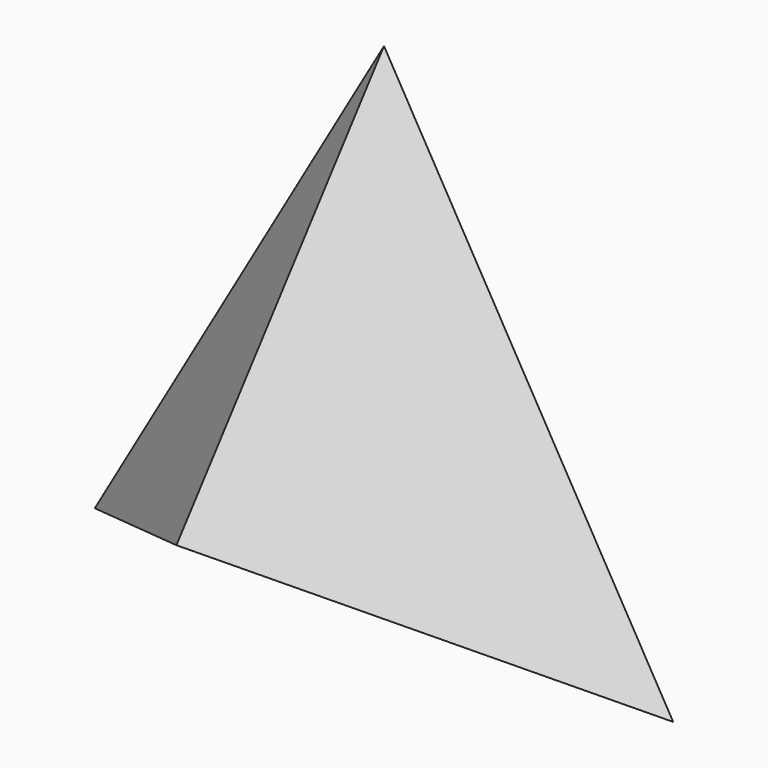
from build123d import *

# Parameters (mm, degrees)
F1_DEPTH = 50.8
F4_DEPTH = 38.1
F6_DEPTH = 76.2
F9_DEPTH = 38.1


with BuildPart() as f1:
    # F0 (on Front) → F1 (new body)
    with BuildSketch(Plane.XZ):
        Polygon((0, 27.8534215753), (-24.1217706665, -13.9267107877), (24.1217706665, -13.9267107877), align=None)
    extrude(amount=F1_DEPTH)

    # F3 (on Right) → F4 (cut, symmetric)
    with BuildSketch(Plane.YZ):
        Polygon((-4.1414177977, -23.6890129745), (0, -13.9267107877), (-21.6406751424, 0), (-53.4481443465, 0), (-53.4481443465, -20.1891623437), align=None)
    extrude(amount=F4_DEPTH, both=True, mode=Mode.SUBTRACT)

    # F5 (on face) → F6 (cut)
    with BuildSketch(Plane(origin=(-12.0608853333, 0, -20.8900661815), x_dir=(0.8660254038, 0, -0.5), z_dir=(0.5, 0, 0.8660254038))):
        Polygon((0, -21.6406751424), (-13.9267107877, 0), (-23.6785002053, -57.1040175855), (0, -58.6630254984), align=None)
    extrude(amount=F6_DEPTH, mode=Mode.SUBTRACT)

    # F8 (on face) → F9 (cut, symmetric)
    with BuildSketch(Plane(origin=(-4.0202951111, 0, 6.9633553938), x_dir=(0.8660254038, 0, 0.5), z_dir=(0.5, 0, -0.8660254038))):
        Polygon((-6.0183512978, 52.3292906582), (0, 21.6406751424), (13.9267107877, 0), (24.3944823742, 42.0836023986), (17.7801791579, 52.3292906582), align=None)
    extrude(amount=F9_DEPTH, both=True, mode=Mode.SUBTRACT)


solid = f1.part
